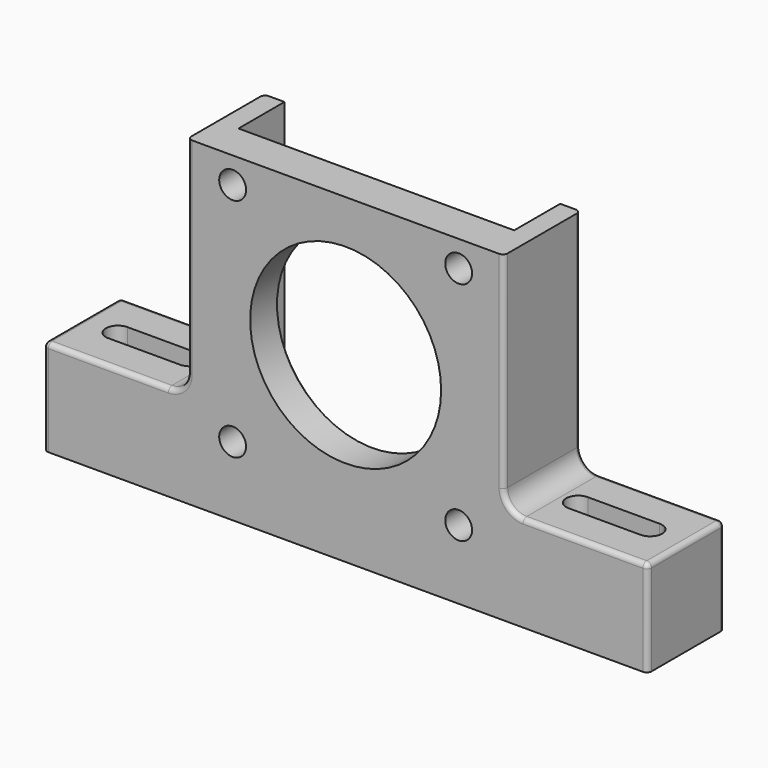
from build123d import *

# Parameters (mm, degrees)
SKETCH_R        = 2.8
SKETCH_R_2      = 19.914493
PAD_DEPTH       = 20
SKETCH001_W     = 57.5
SKETCH001_H     = 58
POCKET_DEPTH    = 12
POCKET001_DEPTH = 308.202319
FILLET_R        = 4
FILLET001_R     = 1
CHAMFER_SIZE    = 1
CHAMFER001_SIZE = 1


with BuildPart() as part:
    # Sketch → Pad (new body)
    with BuildSketch(Plane.XZ):
        Polygon((33, -18), (33, 29), (-33, 29), (-33, -18), (-63, -18), (-63, -38), (63, -38), (63, -18), align=None)
        with Locations((-23.57, -23.57)):
            Circle(SKETCH_R, mode=Mode.SUBTRACT)
        with Locations((23.57, -23.57)):
            Circle(SKETCH_R, mode=Mode.SUBTRACT)
        with Locations((-23.57, 23.57)):
            Circle(SKETCH_R, mode=Mode.SUBTRACT)
        Circle(SKETCH_R_2, mode=Mode.SUBTRACT)
        with Locations((23.57, 23.57)):
            Circle(SKETCH_R, mode=Mode.SUBTRACT)
    extrude(amount=PAD_DEPTH)

    # Sketch001 (on Face14 of Pad) → Pocket (cut)
    with BuildSketch(Plane(origin=(0, 0, 0), x_dir=(1, 0, 0), z_dir=(0, 1, 0))):
        Rectangle(SKETCH001_W, SKETCH001_H)
    extrude(amount=-POCKET_DEPTH, mode=Mode.SUBTRACT)

    # Sketch002 (on Face2 of Pocket) → Pocket001 (cut, through all)
    with BuildSketch(Plane(origin=(0, 0, -18), x_dir=(-1, 0, 0), z_dir=(0, 0, 1))):
        with BuildLine():
            ThreePointArc((-55.5, 12.5), (-58, 10), (-55.5, 7.5))
            Line((-55.5, 7.5), (-40.5, 7.5))
            ThreePointArc((-40.5, 7.5), (-38, 10), (-40.5, 12.5))
            Line((-55.5, 12.5), (-40.5, 12.5))
        make_face()
    pocket001 = extrude(amount=-POCKET001_DEPTH, mode=Mode.SUBTRACT)

    # Mirrored: Pocket001 across Sketch002 V_Axis
    add(pocket001.mirror(Plane(origin=(0, 0, -18), x_dir=(0, 0, 1), z_dir=(-1, 0, 0))), mode=Mode.SUBTRACT)

    # Fillet
    fillet_edges = [part.edges().sort_by_distance(p)[0] for p in [
        (33, -10, -18),
        (-33, -10, -18),
    ]]
    fillet(fillet_edges, radius=FILLET_R)

    # Fillet001
    fillet001_edges = [part.edges().sort_by_distance(p)[0] for p in [
        (33, 0, 7.5),
        (-33, 0, 7.5),
        (33, -20, 7.5),
        (-33, -20, 7.5),
        (63, -10, -18),
        (-63, -10, -18),
        (-63, 0, -28),
        (-63, -20, -28),
        (63, 0, -28),
        (63, -20, -28),
    ]]
    fillet(fillet001_edges, radius=FILLET001_R)

    # Chamfer
    chamfer_edges = [part.edges().sort_by_distance(p)[0] for p in [
        (28.75, -6, -29),
        (-28.75, -6, -29),
    ]]
    chamfer(chamfer_edges, length=CHAMFER_SIZE)

    # Chamfer001
    chamfer001_edges = [part.edges().sort_by_distance(p)[0] for p in [
        (-19.914493, -12, 0),
    ]]
    chamfer(chamfer001_edges, length=CHAMFER001_SIZE)


solid = part.part
